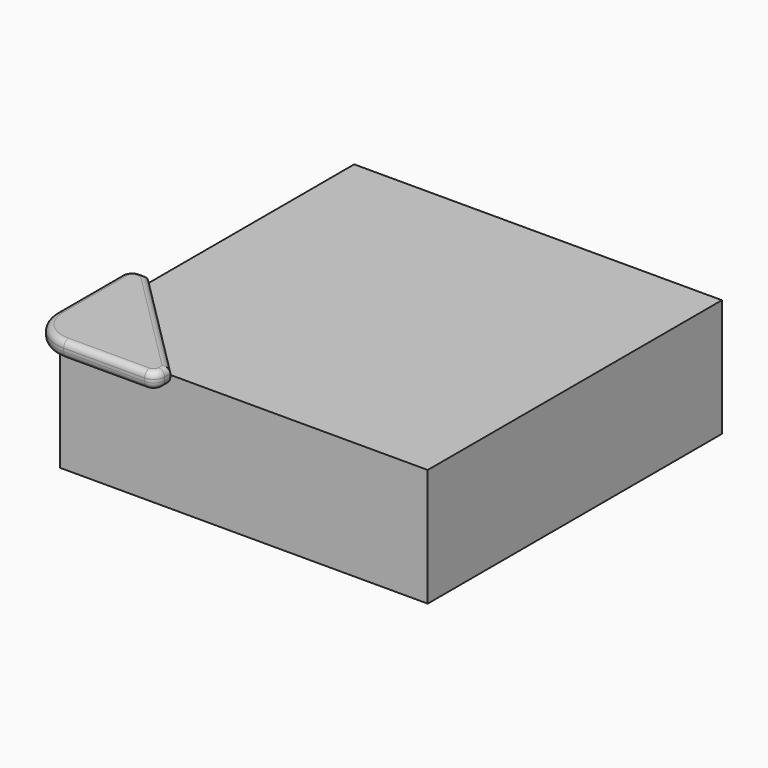
from build123d import *

# Parameters (mm, degrees)
F0_W     = 100
F0_H     = 100
F1_DEPTH = 32
F3_DEPTH = 2
F4_DEPTH = 2.5
F5_R     = 2
F6_R     = 1.689949


with BuildPart() as f1:
    # F0 (on Top) → F1 (new body)
    with BuildSketch(Plane.XY):
        with Locations((50, 50)):
            Rectangle(F0_W, F0_H)
        with Locations((50, 50)):
            Rectangle(F0_W, F0_H)
    extrude(amount=F1_DEPTH)



with BuildPart() as f3:
    # F2 (on face) → F3 (new body)
    with BuildSketch(Plane.XY.offset(32)):
        Polygon((0, 30), (0, 0), (30, 0), align=None)
        with BuildLine():
            Line((30, 0), (0, 0))
            Line((0, 0), (0, 30))
            Line((0, 30), (-2, 30))
            ThreePointArc((-2, 30), (-4.12132, 29.12132), (-5, 27))
            Line((-5, 27), (-5, 5))
            ThreePointArc((-5, 5), (-2.071068, -2.071068), (5, -5))
            Line((5, -5), (27.016253, -5))
            ThreePointArc((27.016253, -5), (29.146228, -4.11263), (30.016152, -1.975471))
            Line((30.016152, -1.975471), (30, 0))
        make_face()
    extrude(amount=F3_DEPTH)


with BuildPart() as f1_1:
    add(f1.part)

    add(f3.part)  # F4 merges F3
    # F2 (on face) → F4 (join)
    with BuildSketch(Plane.XY.offset(32)):
        with BuildLine():
            Line((30, 0), (0, 0))
            Line((0, 0), (0, 30))
            Line((0, 30), (-2, 30))
            ThreePointArc((-2, 30), (-4.12132, 29.12132), (-5, 27))
            Line((-5, 27), (-5, 5))
            ThreePointArc((-5, 5), (-2.071068, -2.071068), (5, -5))
            Line((5, -5), (27.016253, -5))
            ThreePointArc((27.016253, -5), (29.146228, -4.11263), (30.016152, -1.975471))
            Line((30.016152, -1.975471), (30, 0))
        make_face()
    extrude(amount=-F4_DEPTH)

    # F5
    f5_edges = [f1_1.edges().sort_by_distance(p)[0] for p in [
        (-1, 30, 29.5),
        (-4.12132, 29.12132, 29.5),
        (-5, 16, 29.5),
        (-2.071068, -2.071068, 29.5),
        (16.008126, -5, 29.5),
        (29.146228, -4.11263, 29.5),
        (30.008076, -0.987736, 29.5),
    ]]
    fillet(f5_edges, radius=F5_R)

    # F6
    f6_edges = [f1_1.edges().sort_by_distance(p)[0] for p in [
        (15, 15, 34),
        (-1, 30, 34),
        (-4.12132, 29.12132, 34),
        (-5, 16, 34),
        (-2.071068, -2.071068, 34),
        (16.008126, -5, 34),
        (29.146228, -4.11263, 34),
        (30.008076, -0.987736, 34),
    ]]
    fillet(f6_edges, radius=F6_R)


solid = f1_1.part
